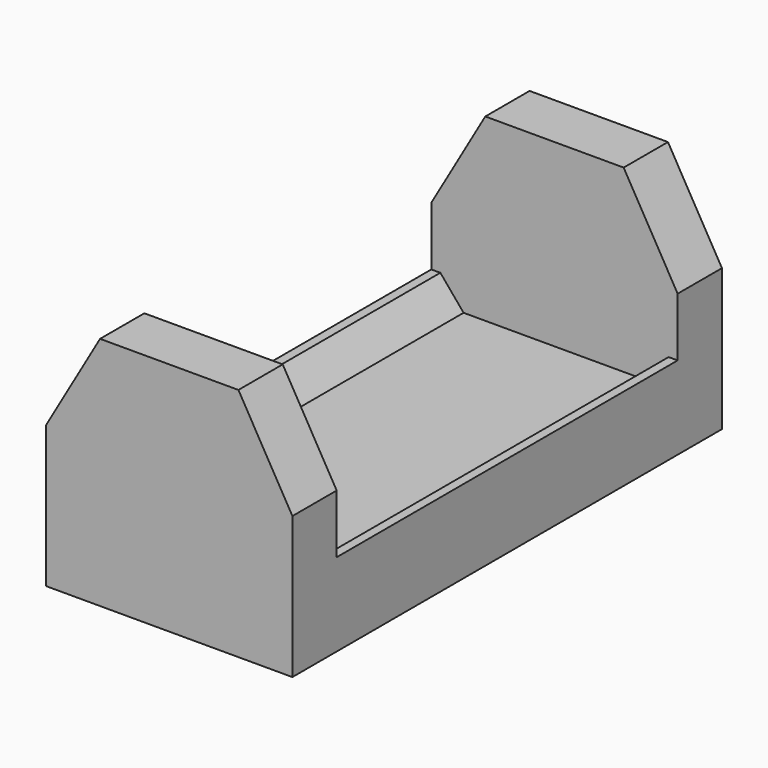
from build123d import *

# Parameters (mm, degrees)
F1_DEPTH = 9.7
F3_DEPTH = 7.7


with BuildPart() as f1:
    # F0 (on Front) → F1 (new body)
    with BuildSketch(Plane.XZ):
        Polygon((2.5, 8.5), (0, 8.5), (-2.5, 8.5), (-4.45, 5.1225009252), (-4.45, 0), (0, 0), (4.45, 0), (4.45, 5.1225009252), align=None)
    extrude(amount=F1_DEPTH)

    # F2 (on Front) → F3 (cut, through all)
    with BuildSketch(Plane.XZ):
        Polygon((-4.45, 5.1225009252), (-4.45, 3), (-4.1234630536, 3), (-3.2843634225, 2), (0, 2), (0, 8.5), (-2.5, 8.5), align=None)
        Polygon((0, 8.5), (0, 2), (3.2843634225, 2), (4.1234630536, 3), (4.45, 3), (4.45, 5.1225009252), (2.5, 8.5), align=None)
    extrude(amount=F3_DEPTH, mode=Mode.SUBTRACT)

    # F4: F1 across plane


with BuildPart() as f1_1:
    add(f1.part)
    add(f1.part.mirror(Plane.XZ))


solid = f1_1.part
